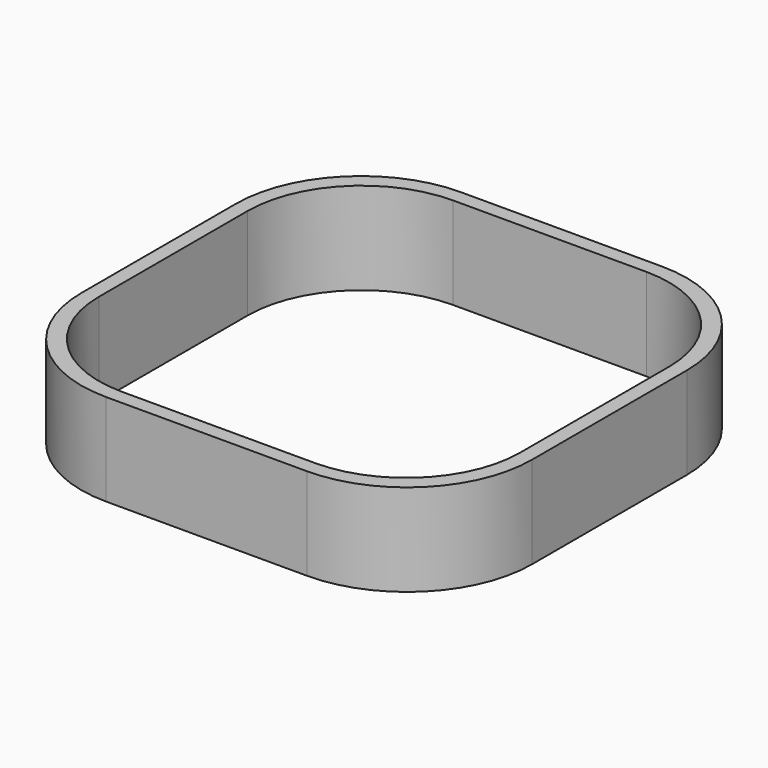
from build123d import *

# Parameters (mm, degrees)
BOX001_W     = 114.5
BOX001_H     = 112.5
BOX001_DEPTH = 32
BOX_W        = 122.5
BOX_H        = 120.5
BOX_DEPTH    = 25
FILLET_R     = 31
FILLET001_R  = 31
FILLET002_R  = 31
FILLET003_R  = 31
FILLET004_R  = 34
FILLET005_R  = 34
FILLET009_R  = 34
FILLET008_R  = 34


with BuildPart() as cubo001:
    # Box001 → Box001 (new body)
    with BuildSketch(Plane(origin=(4, 4, 0), x_dir=(1, 0, 0), z_dir=(0, 0, 1))):
        with Locations((57.25, 56.25)):
            Rectangle(BOX001_W, BOX001_H)
    extrude(amount=BOX001_DEPTH)


with BuildPart() as fillet008:
    # Box → Box (new body)
    with BuildSketch(Plane.XY):
        with Locations((61.25, 60.25)):
            Rectangle(BOX_W, BOX_H)
    extrude(amount=BOX_DEPTH)

    # Cut: cut Cubo001
    add(cubo001.part, mode=Mode.SUBTRACT)

    # Fillet
    fillet_edges = [fillet008.edges().sort_by_distance(p)[0] for p in [
        (4, 116.5, 12.5),
    ]]
    fillet(fillet_edges, radius=FILLET_R)

    # Fillet001
    fillet001_edges = [fillet008.edges().sort_by_distance(p)[0] for p in [
        (118.5, 116.5, 12.5),
    ]]
    fillet(fillet001_edges, radius=FILLET001_R)

    # Fillet002
    fillet002_edges = [fillet008.edges().sort_by_distance(p)[0] for p in [
        (4, 4, 12.5),
    ]]
    fillet(fillet002_edges, radius=FILLET002_R)

    # Fillet003
    fillet003_edges = [fillet008.edges().sort_by_distance(p)[0] for p in [
        (118.5, 4, 12.5),
    ]]
    fillet(fillet003_edges, radius=FILLET003_R)

    # Fillet004
    fillet004_edges = [fillet008.edges().sort_by_distance(p)[0] for p in [
        (0, 120.5, 12.5),
    ]]
    fillet(fillet004_edges, radius=FILLET004_R)

    # Fillet005
    fillet005_edges = [fillet008.edges().sort_by_distance(p)[0] for p in [
        (122.5, 120.5, 12.5),
    ]]
    fillet(fillet005_edges, radius=FILLET005_R)

    # Fillet009
    fillet009_edges = [fillet008.edges().sort_by_distance(p)[0] for p in [
        (122.5, 0, 12.5),
    ]]
    fillet(fillet009_edges, radius=FILLET009_R)

    # Fillet008
    fillet008_edges = [fillet008.edges().sort_by_distance(p)[0] for p in [
        (0, 0, 12.5),
    ]]
    fillet(fillet008_edges, radius=FILLET008_R)


solid = fillet008.part
